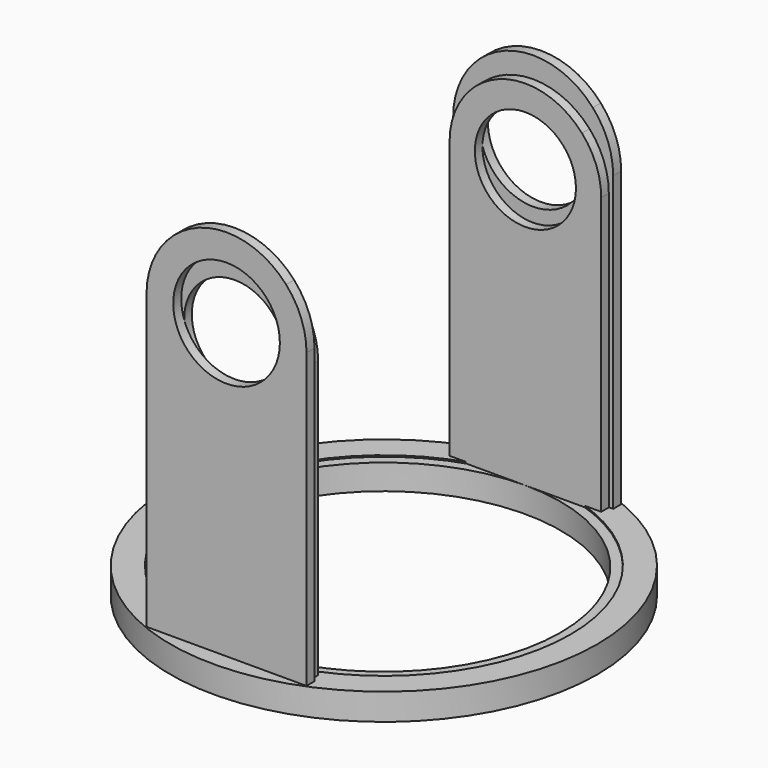
from build123d import *

# Parameters (mm, degrees)
F0_R     = 50.8
F0_R_2   = 44.45
F1_DEPTH = 6.35
F4_DEPTH = 2.38125
F6_SCALE = 1.055


with BuildPart() as f1:
    # F0 (on Top) → F1 (new body)
    with BuildSketch(Plane.XY):
        Circle(F0_R)
        Circle(F0_R_2, mode=Mode.SUBTRACT)
    extrude(amount=F1_DEPTH)

    # F3 (on offset) → F4 (join)
    with BuildSketch(Plane.XZ.offset(44.45)):
        with BuildLine():
            Line((-19.05, 76.2), (-19.05, 0))
            Line((-19.05, 0), (19.05, 0))
            Line((19.05, 0), (19.05, 76.2))
            ThreePointArc((19.05, 76.2), (0, 57.15), (-19.05, 76.2))
        make_face()
        with BuildLine():
            ThreePointArc((-14.1990316571, 88.9), (-17.7959834382, 82.9974608102), (-19.05, 76.2))
            ThreePointArc((-19.05, 76.2), (0, 57.15), (19.05, 76.2))
            ThreePointArc((19.05, 76.2), (17.7959834382, 82.9974608102), (14.1990316571, 88.9))
            Line((14.1990316571, 88.9), (-7.87e-08, 88.9))
            Line((-7.87e-08, 88.9), (-14.1990316571, 88.9))
        make_face()
        with BuildLine():
            ThreePointArc((12.7, 76.2), (-8.9802560932, 67.2197438511), (-7.87e-08, 88.9))
            ThreePointArc((-7.87e-08, 88.9), (8.9802560932, 85.1802561489), (12.7, 76.2))
        make_face(mode=Mode.SUBTRACT)
        with BuildLine():
            ThreePointArc((14.1990316571, 88.9), (0, 95.25), (-14.1990316571, 88.9))
            Line((-14.1990316571, 88.9), (-7.87e-08, 88.9))
            Line((-7.87e-08, 88.9), (14.1990316571, 88.9))
        make_face()
    extrude(amount=F4_DEPTH)

    # F5: F1 across plane


with BuildPart() as f1_1:
    add(f1.part)
    add(f1.part.mirror(Plane.XZ))


with BuildPart() as f6_1:
    # F6: copy of F1
    add(f1_1.part.scale(F6_SCALE))


solid = Compound([f1_1.part, f6_1.part])
